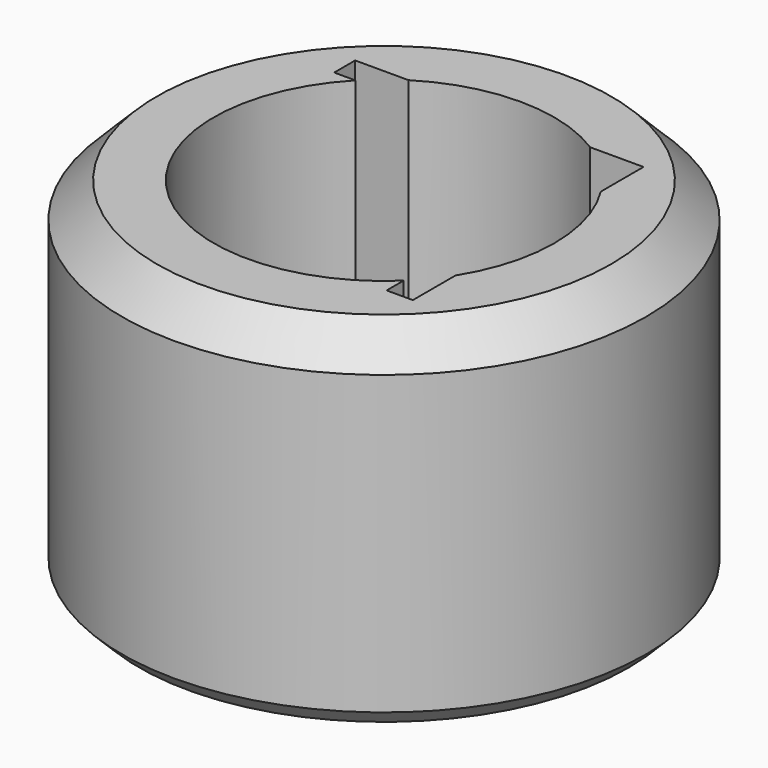
from build123d import *

# Parameters (mm, degrees)
SKETCH_R        = 30
PAD_DEPTH       = 40
POCKET_DEPTH    = 35
SKETCH002_R     = 19.5
POCKET001_DEPTH = 35
CHAMFER_SIZE    = 4
CHAMFER001_SIZE = 2


with BuildPart() as part:
    # Sketch → Pad (new body)
    with BuildSketch(Plane.XY):
        Circle(SKETCH_R)
    extrude(amount=PAD_DEPTH)

    # Sketch001 (on Face3 of Pad) → Pocket (cut)
    with BuildSketch(Plane.XY.offset(40)):
        Polygon((-16.5, 16.5), (16.5, 16.5), (16.5, -16.5), (13.5, -16.5), (13.5, 13.5), (-16.5, 13.5), align=None)
    extrude(amount=-POCKET_DEPTH, mode=Mode.SUBTRACT)

    # Sketch002 (on Face3 of Pocket) → Pocket001 (cut)
    with BuildSketch(Plane.XY.offset(40)):
        Circle(SKETCH002_R)
    extrude(amount=-POCKET001_DEPTH, mode=Mode.SUBTRACT)

    # Chamfer
    chamfer_edges = [part.edges().sort_by_distance(p)[0] for p in [
        (-30, 0, 40),
    ]]
    chamfer(chamfer_edges, length=CHAMFER_SIZE)

    # Chamfer001
    chamfer001_edges = [part.edges().sort_by_distance(p)[0] for p in [
        (-30, 0, 0),
    ]]
    chamfer(chamfer001_edges, length=CHAMFER001_SIZE)


solid = part.part
